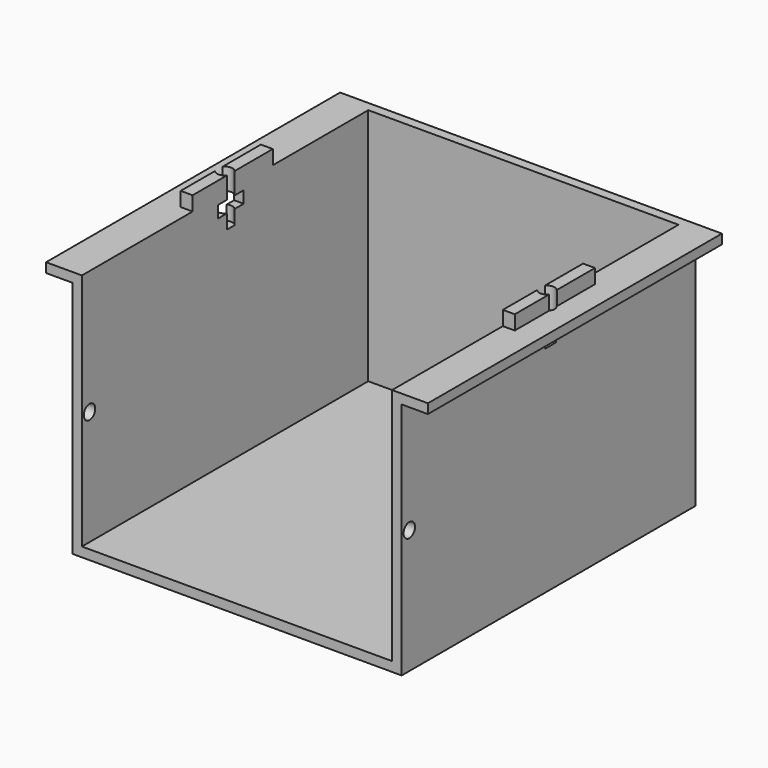
from build123d import *

# Parameters (mm, degrees)
PAD_DEPTH         = 77
SKETCH001_W       = 69
SKETCH001_H       = 52
PAD001_DEPTH      = 2
SKETCH002_R       = 1.5
POCKET_DEPTH      = 5.501
POCKET_DEPTH_BACK = -74.501
SKETCH003_W       = 2.5
SKETCH003_H       = 21
PAD002_DEPTH      = 3
SKETCH004_R       = 1.6
POCKET001_DEPTH   = 10
POCKET002_DEPTH   = 2.5


with BuildPart() as part:
    # Sketch → Pad (new body)
    with BuildSketch(Plane.XZ):
        Polygon((0, 0), (69, 0), (69, 50), (74.5, 50), (74.5, 52), (67, 52), (67, 2), (2, 2), (2, 52), (-5.5, 52), (-5.5, 50), (0, 50), align=None)
    extrude(amount=PAD_DEPTH)

    # Sketch001 → Pad001 (join)
    with BuildSketch(Plane.XZ):
        with Locations((34.5, 26)):
            Rectangle(SKETCH001_W, SKETCH001_H)
    extrude(amount=PAD001_DEPTH)

    # Sketch002 → Pocket (cut, two sides)
    with BuildSketch(Plane.YZ) as pocket_sk:
        with Locations((-75, 26)):
            Circle(SKETCH002_R)
    extrude(amount=-POCKET_DEPTH, mode=Mode.SUBTRACT)
    extrude(pocket_sk.sketch, amount=-POCKET_DEPTH_BACK, mode=Mode.SUBTRACT)

    # Sketch003 (on Face8 of Pocket) → Pad002 (join)
    with BuildSketch(Plane(origin=(0, 0, 52), x_dir=(-1, 0, 0), z_dir=(0, 0, 1))):
        with Locations((-68.25, 37.5)):
            Rectangle(SKETCH003_W, SKETCH003_H)
        with Locations((-0.75, 37.5)):
            Rectangle(SKETCH003_W, SKETCH003_H)
    extrude(amount=PAD002_DEPTH)

    # Sketch004 (on Face21 of Pad002) → Pocket001 (cut)
    with BuildSketch(Plane(origin=(0, 0, 55), x_dir=(-1, 0, 0), z_dir=(0, 0, 1))):
        with Locations((-68.25, 38)):
            Circle(SKETCH004_R)
        with Locations((-0.75, 38)):
            Circle(SKETCH004_R)
    extrude(amount=-POCKET001_DEPTH, mode=Mode.SUBTRACT)

    # Sketch005 (on Face11 of Pocket001) → Pocket002 (cut)
    with BuildSketch(Plane(origin=(0, 0, 50.5), x_dir=(-1, 0, 0), z_dir=(0, 0, 1))):
        Polygon((1.195, 34.631161), (3.14, 38), (1.195, 41.368839), (-2.695, 41.368839), (-4.64, 38), (-2.695, 34.631161), align=None)
        Polygon((-66.305, 34.631161), (-64.36, 38), (-66.305, 41.368839), (-70.195, 41.368839), (-72.14, 38), (-70.195, 34.631161), align=None)
    extrude(amount=-POCKET002_DEPTH, mode=Mode.SUBTRACT)


solid = part.part
